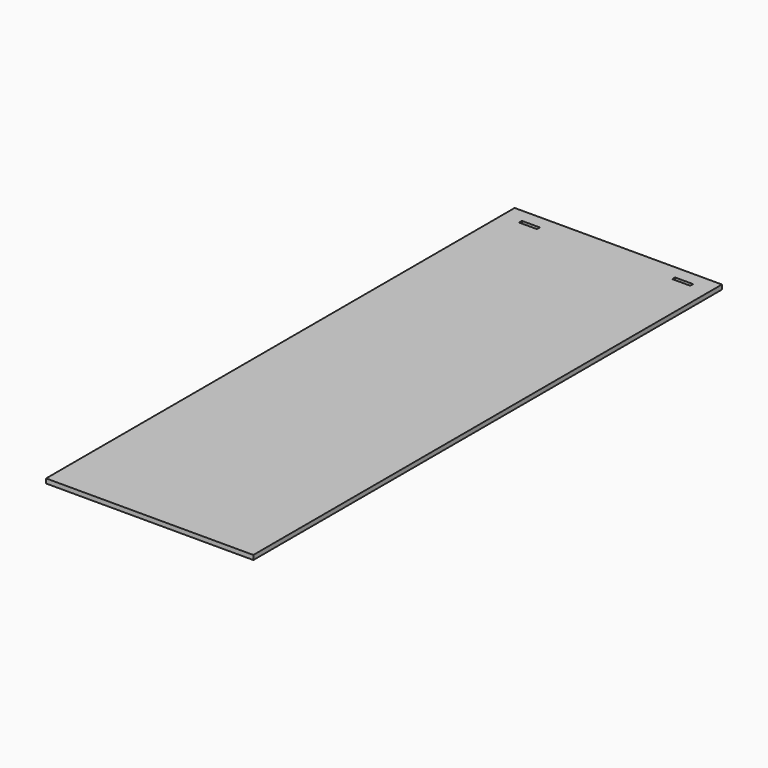
from build123d import *

# Parameters (mm, degrees)
F0_W     = 584.2
F0_H     = 1651
F1_DEPTH = 12.7
F2_W     = 50.8
F2_H     = 10.16
F3_DEPTH = 15.24


with BuildPart() as f1:
    # F0 (on Top) → F1 (new body)
    with BuildSketch(Plane.XY):
        with Locations((-19.843751, 573.210601)):
            Rectangle(F0_W, F0_H)
    extrude(amount=-F1_DEPTH)

    # F2 (on face) → F3 (cut)
    with BuildSketch(Plane.XY):
        with Locations((-235.743751, 1355.530601)):
            Rectangle(F2_W, F2_H)
        with Locations((196.056249, 1355.530601)):
            Rectangle(F2_W, F2_H)
    extrude(amount=-F3_DEPTH, mode=Mode.SUBTRACT)


solid = f1.part
